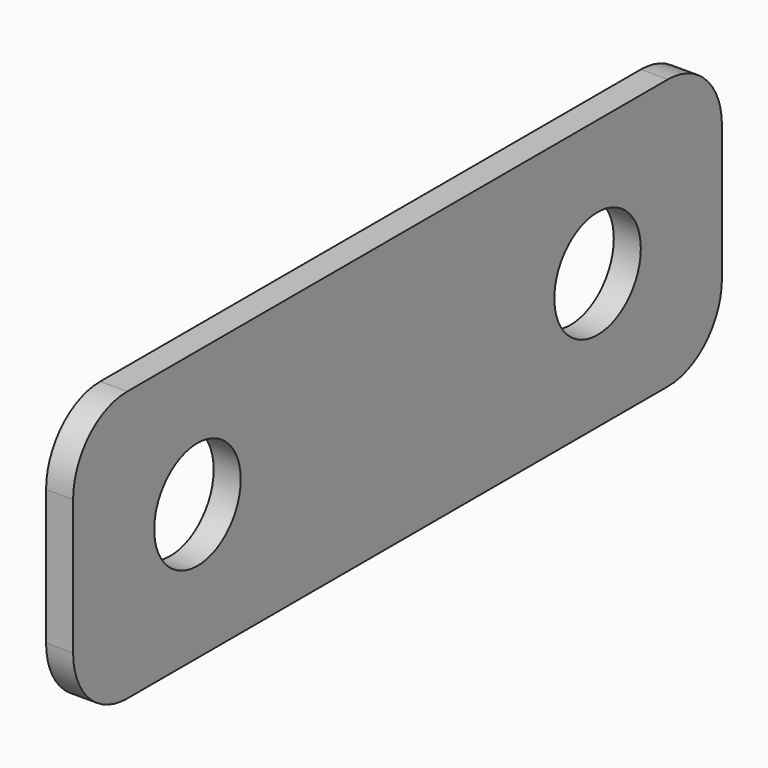
from build123d import *

# Parameters (mm, degrees)
F0_W     = 60
F0_H     = 20
F0_R     = 4
F1_DEPTH = 2
F2_R     = 5


with BuildPart() as f1:
    # F0 (on Right) → F1 (new body)
    with BuildSketch(Plane.YZ):
        Rectangle(F0_W, F0_H)
        with Locations((-18.5, 0)):
            Circle(F0_R, mode=Mode.SUBTRACT)
        with Locations((18.5, 0)):
            Circle(F0_R, mode=Mode.SUBTRACT)
    extrude(amount=F1_DEPTH)

    # F2
    f2_edges = [f1.edges().sort_by_distance(p)[0] for p in [
        (1, -30, 10),
        (1, -30, -10),
        (1, 30, 10),
        (1, 30, -10),
    ]]
    fillet(f2_edges, radius=F2_R)


solid = f1.part
